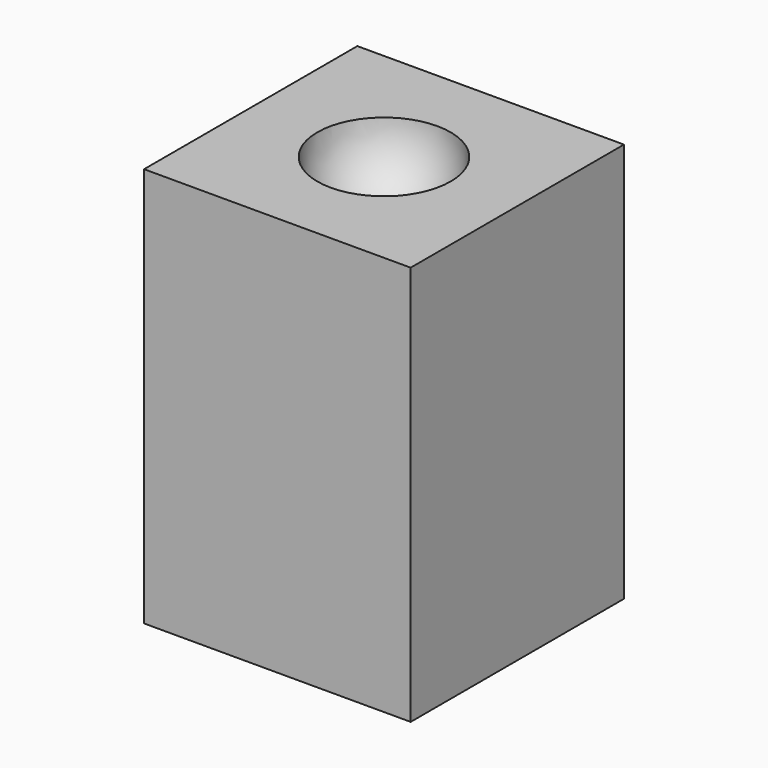
from build123d import *

# Parameters (mm, degrees)
F0_W     = 200
F0_H     = 200
F1_DEPTH = 300


with BuildPart() as f1:
    # F0 (on Top) → F1 (new body)
    with BuildSketch(Plane.XY):
        Rectangle(F0_W, F0_H)
    extrude(amount=F1_DEPTH)

    # F2 (on Right) → F3 (revolve, cut)
    with BuildSketch(Plane.YZ):
        with BuildLine():
            ThreePointArc((50, 300), (0, 350), (-50, 300))
            Line((-50, 300), (50, 300))
        make_face()
    revolve(axis=Axis((0, 0, 300), (0, 1, 0)), mode=Mode.SUBTRACT)


solid = f1.part
